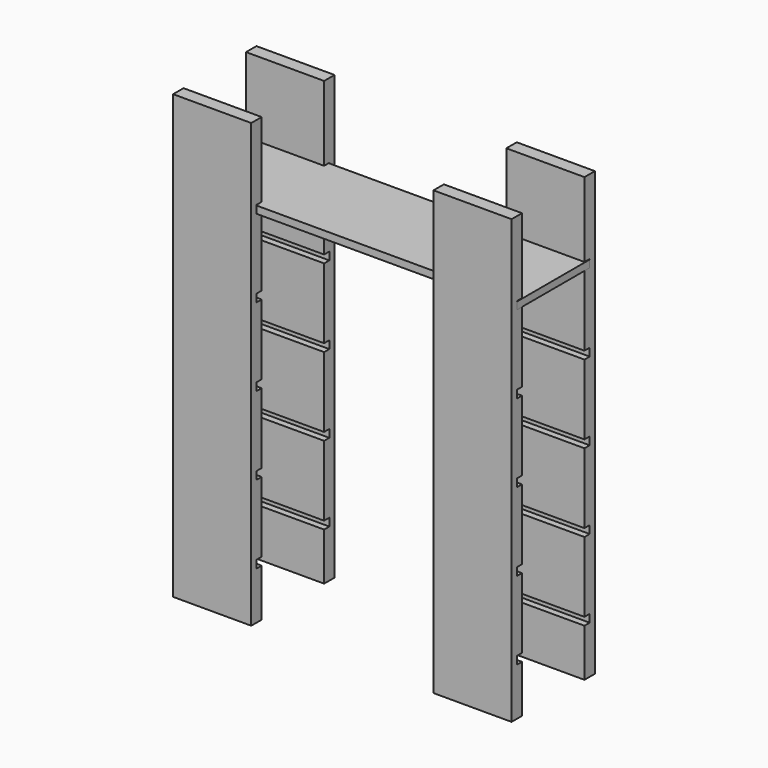
from build123d import *

# Parameters (mm, degrees)
F0_W     = 300
F0_H     = 50
F1_DEPTH = 1700
F2_W     = 300
F2_H     = 30
F3_DEPTH = 25
F4_W     = 300
F4_H     = 30
F6_DEPTH = 25
F7_DEPTH = 28


with BuildPart() as f1:
    # F0 (on Top) → F1 (new body)
    with BuildSketch(Plane.XY):
        with Locations((-500, 15.231046)):
            Rectangle(F0_W, F0_H)
        with Locations((500, 15.231046)):
            Rectangle(F0_W, F0_H)
        with Locations((-500, 365.231046)):
            Rectangle(F0_W, F0_H)
        with Locations((500, 365.231046)):
            Rectangle(F0_W, F0_H)
    extrude(amount=-F1_DEPTH)

    # F2 (on face) → F3 (cut)
    with BuildSketch(Plane.XZ.offset(-340.231046)):
        with Locations((500, -1502.00151)):
            Rectangle(F2_W, F2_H)
        with Locations((500, -1202.00151)):
            Rectangle(F2_W, F2_H)
        with Locations((500, -902.00151)):
            Rectangle(F2_W, F2_H)
        with Locations((500, -602.00151)):
            Rectangle(F2_W, F2_H)
        with Locations((500, -302.00151)):
            Rectangle(F2_W, F2_H)
        with Locations((-500, -1502.00151)):
            Rectangle(F2_W, F2_H)
        with Locations((-500, -1202.00151)):
            Rectangle(F2_W, F2_H)
        with Locations((-500, -602.00151)):
            Rectangle(F2_W, F2_H)
        with Locations((-500, -302.00151)):
            Rectangle(F2_W, F2_H)
        with Locations((-500, -902.00151)):
            Rectangle(F2_W, F2_H)
    extrude(amount=-F3_DEPTH, mode=Mode.SUBTRACT)

    # F4 (on face) → F6 (cut)
    with BuildSketch(Plane(origin=(0, 40.231046, 0), x_dir=(-1, 0, 0), z_dir=(0, 1, 0))):
        with Locations((500, -1502.00151)):
            Rectangle(F4_W, F4_H)
        with Locations((500, -1202.00151)):
            Rectangle(F4_W, F4_H)
        with Locations((500, -902.00151)):
            Rectangle(F4_W, F4_H)
        with Locations((500, -602.00151)):
            Rectangle(F4_W, F4_H)
        with Locations((500, -302.00151)):
            Rectangle(F4_W, F4_H)
        with Locations((-500, -1502.00151)):
            Rectangle(F4_W, F4_H)
        with Locations((-500, -1202.00151)):
            Rectangle(F4_W, F4_H)
        with Locations((-500, -302.00151)):
            Rectangle(F4_W, F4_H)
        with Locations((-500, -602.00151)):
            Rectangle(F4_W, F4_H)
        with Locations((-500, -902.00151)):
            Rectangle(F4_W, F4_H)
    extrude(amount=-F6_DEPTH, mode=Mode.SUBTRACT)


with BuildPart() as f7:
    # F5 (on face) → F7 (new body)
    with BuildSketch(Plane.XY.offset(-317.00151)):
        Polygon((650, 15.231046), (650, 340.231046), (650, 365.231046), (-650, 365.231046), (-650, 15.231046), align=None)
    extrude(amount=F7_DEPTH)


solid = Compound([f1.part, f7.part])
